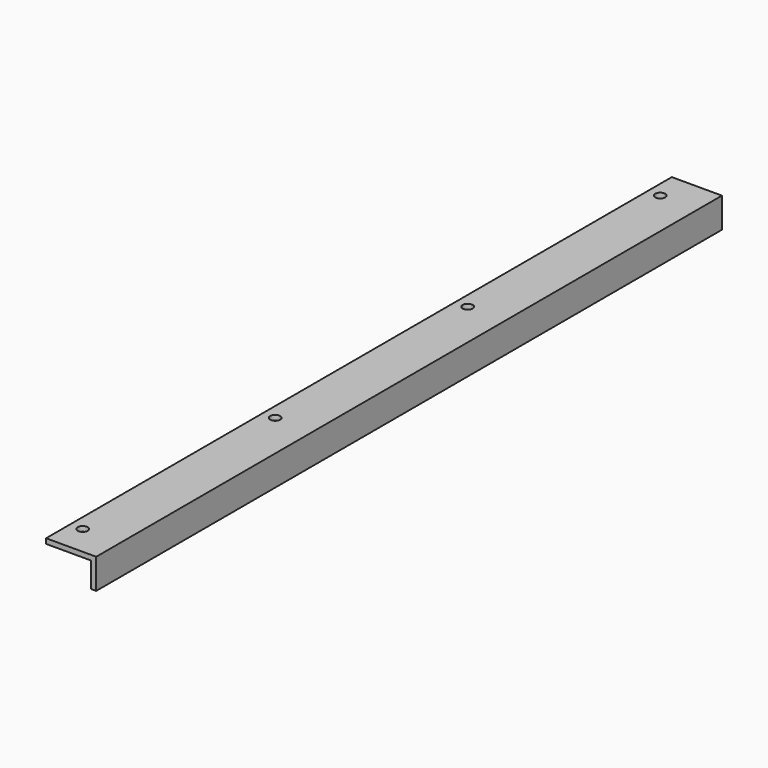
from build123d import *

# Parameters (mm, degrees)
F1_DEPTH = 990.6
F2_R     = 6.35
F3_DEPTH = 25.4


with BuildPart() as f1:
    # F0 (on Front) → F1 (new body)
    with BuildSketch(Plane.XZ):
        Polygon((-6.35, 0), (0, 0), (0, 38.1), (-63.5, 38.1), (-63.5, 31.75), (-6.35, 31.75), align=None)
    extrude(amount=F1_DEPTH)

    # F2 (on face) → F3 (cut)
    with BuildSketch(Plane.XY.offset(38.1)):
        with Locations((-47.625, -952.5)):
            Circle(F2_R)
        with Locations((-47.625, -647.7)):
            Circle(F2_R)
        with Locations((-47.625, -342.9)):
            Circle(F2_R)
        with Locations((-47.625, -38.1)):
            Circle(F2_R)
    extrude(amount=-F3_DEPTH, mode=Mode.SUBTRACT)


solid = f1.part
